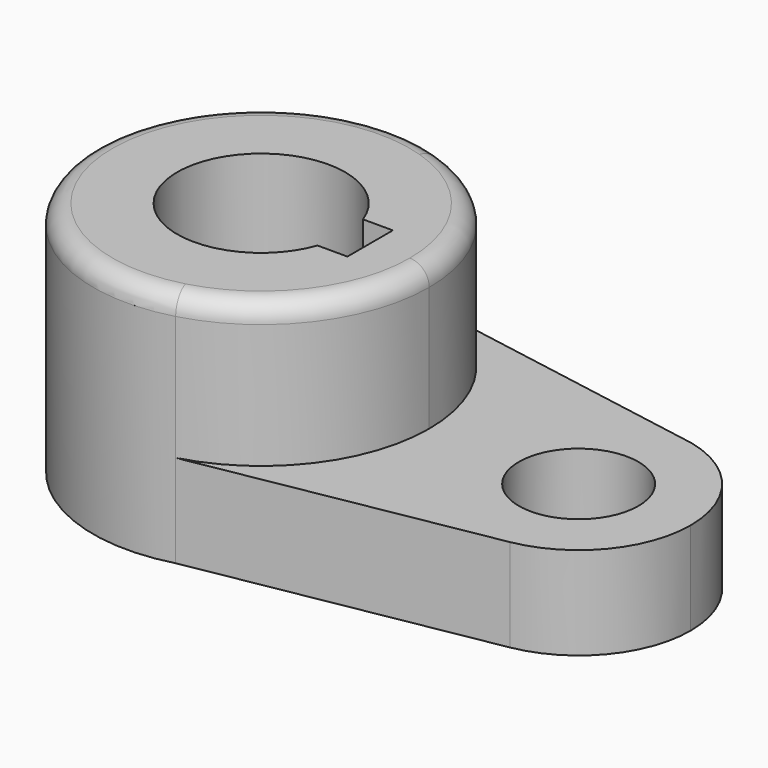
from build123d import *

# Parameters (mm, degrees)
F0_R     = 10.16
F1_DEPTH = 15.7734
F3_DEPTH = 40.2336
F4_R     = 3.302


with BuildPart() as f1:
    # F0 (on Top) → F1 (new body)
    with BuildSketch(Plane.XY):
        with BuildLine():
            ThreePointArc((8.651677, 27.233786), (23.06244, 16.871706), (28.575, 0))
            ThreePointArc((28.575, 0), (22.710053, -17.343129), (7.522744, -27.56699))
            Line((7.522744, -27.56699), (57.294815, -18.7585))
            ThreePointArc((57.294815, -18.7585), (34.935126, -0.621041), (56.065332, 18.934968))
            Line((56.065332, 18.934968), (8.651677, 27.233786))
        make_face()
        with BuildLine():
            Line((58.440289, 18.519279), (56.065332, 18.934968))
            ThreePointArc((56.065332, 18.934968), (34.935126, -0.621041), (57.294815, -18.7585))
            ThreePointArc((57.294815, -18.7585), (68.572003, -12.240507), (73.025, 0))
            ThreePointArc((73.025, 0), (68.941066, 11.786406), (58.440289, 18.519279))
        make_face()
        with Locations((53.975, 0)):
            Circle(F0_R, mode=Mode.SUBTRACT)
    extrude(amount=F1_DEPTH)

    # F2 (on Top) → F3 (join)
    with BuildSketch(Plane.XY):
        with BuildLine():
            ThreePointArc((7.522744, -27.56699), (22.710053, -17.343129), (28.575, 0))
            ThreePointArc((28.575, 0), (23.06244, 16.871706), (8.651677, 27.233786))
            ThreePointArc((8.651677, 27.233786), (-28.568938, 0.58854), (7.522744, -27.56699))
        make_face()
        with BuildLine():
            ThreePointArc((13.447765, -4.826), (-14.2875, 0), (13.447765, 4.826))
            Line((13.447765, 4.826), (18.5293, 4.826))
            Line((18.5293, 4.826), (18.5293, -4.826))
            Line((18.5293, -4.826), (13.447765, -4.826))
        make_face(mode=Mode.SUBTRACT)
    extrude(amount=F3_DEPTH)

    # F4
    f4_edges = [f1.edges().sort_by_distance(p)[0] for p in [
        (-7.522744, 27.56699, 40.2336),
    ]]
    fillet(f4_edges, radius=F4_R)


solid = f1.part
